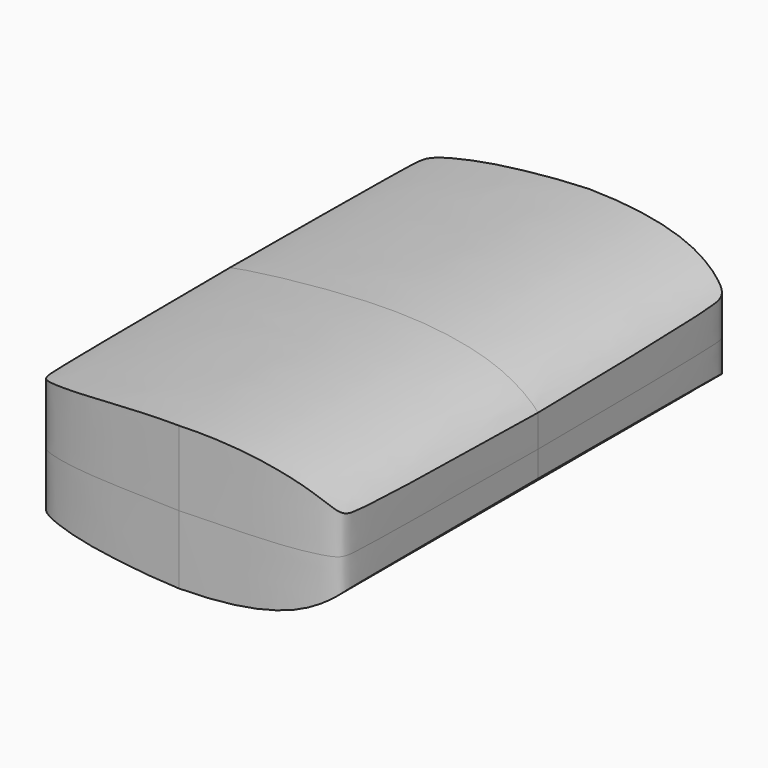
from build123d import *

# Parameters (mm, degrees)
F3_DEPTH      = 25
F3_DEPTH_BACK = 25
F2_W          = 111.228607595
F2_H          = 60.7737265527
F4_DEPTH      = 150
F4_DEPTH_BACK = 150


with BuildPart() as f3:
    # F1 (on Top) → F3 (new body, two sides)
    with BuildSketch(Plane.XY) as f3_sk:
        with BuildLine():
            add(Edge.make_bspline(
                [(0, 51.0523058474), (4.2101277067, 50.9208438135), (12.2649972253, 50.6693289892), (22.1205879887, 50.030140559), (28.81754932, 48.3742499563), (29.8539586074, 46.7460719344), (30.3505738898, 42.7036323475), (30.5332470103, 18.9094804583), (30.6784193963, 0)],
                knots=[0, 0, 0, 0, 0.1873444572, 0.3584297824, 0.4920942937, 0.5562469846, 0.6473444814, 1, 1, 1, 1], degree=3))
            add(Edge.make_bspline(
                [(0, 51.0523058474), (-4.2101277067, 50.9208438135), (-12.2649972253, 50.6693289892), (-22.1205879887, 50.030140559), (-28.81754932, 48.3742499563), (-29.8539586074, 46.7460719344), (-30.3505738898, 42.7036323475), (-30.5332470103, 18.9094804583), (-30.6784193963, 0)],
                knots=[0, 0, 0, 0, 0.1873444572, 0.3584297824, 0.4920942937, 0.5562469846, 0.6473444814, 1, 1, 1, 1], degree=3))
            add(Edge.make_bspline(
                [(0, -51.0523058474), (-4.2101277067, -50.9208438135), (-12.2649972253, -50.6693289892), (-22.1205879887, -50.030140559), (-28.81754932, -48.3742499563), (-29.8539586074, -46.7460719344), (-30.3505738898, -42.7036323475), (-30.5332470103, -18.9094804583), (-30.6784193963, 0)],
                knots=[0, 0, 0, 0, 0.1873444572, 0.3584297824, 0.4920942937, 0.5562469846, 0.6473444814, 1, 1, 1, 1], degree=3))
            add(Edge.make_bspline(
                [(0, -51.0523058474), (4.2101277067, -50.9208438135), (12.2649972253, -50.6693289892), (22.1205879887, -50.030140559), (28.81754932, -48.3742499563), (29.8539586074, -46.7460719344), (30.3505738898, -42.7036323475), (30.5332470103, -18.9094804583), (30.6784193963, 0)],
                knots=[0, 0, 0, 0, 0.1873444572, 0.3584297824, 0.4920942937, 0.5562469846, 0.6473444814, 1, 1, 1, 1], degree=3))
        make_face()
    extrude(amount=F3_DEPTH)
    extrude(f3_sk.sketch, amount=-F3_DEPTH_BACK)

    # F2 (on Front) → F4 (cut, two sides)
    with BuildSketch(Plane.XZ) as f4_sk:
        Rectangle(F2_W, F2_H)
        with BuildLine():
            add(Edge.make_bspline(
                [(-30.4400417954, 0.6283813564), (-30.5159334322, 4.6189735913), (-30.6050558481, 9.3052767981), (-30.3245028421, 9.952923693), (-31.2723962754, 9.6931423695), (-32.012043555, 10.2124424051), (-31.9430830558, 11.428518313), (-30.5325395485, 12.2907607529), (-1.2768176004, 16.0551991567), (17.6209410553, 13.8843710099), (26.7302981419, 10.2683948425), (32.4769251968, 5.2428072962), (32.2106882034, 1.0983054835), (31.282979952, 1.5582742054), (30.9357808828, 1.5215312393), (30.7671558112, 1.5036861878)],
                knots=[0, 0, 0, 0, 0.1143057094, 0.1342335125, 0.1674824811, 0.2020063857, 0.2395292163, 0.2795739276, 0.4827125466, 0.6585945582, 0.7747586985, 0.8778107353, 0.9429319273, 0.9722836013, 1, 1, 1, 1], degree=3))
            Line((30.7671558112, 1.5036861878), (30.7671558112, -0.2469234751))
            add(Edge.make_bspline(
                [(-30.4400417954, 0.6283813564), (-30.5159334322, -3.3622108785), (-30.6050558481, -8.0485140854), (-30.3245028421, -8.6961609803), (-31.2723962754, -8.4363796568), (-32.012043555, -8.9556796924), (-31.9430830558, -10.1717556003), (-30.5325395485, -11.0339980402), (-1.2768176004, -14.798436444), (17.6209410553, -12.6276082972), (26.7302981419, -9.0116321298), (32.4769251968, -3.9860445834), (32.2106882034, 0.1584572292), (31.282979952, -0.3015114927), (30.9357808828, -0.2647685266), (30.7671558112, -0.2469234751)],
                knots=[0, 0, 0, 0, 0.1143057094, 0.1342335125, 0.1674824811, 0.2020063857, 0.2395292163, 0.2795739276, 0.4827125466, 0.6585945582, 0.7747586985, 0.8778107353, 0.9429319273, 0.9722836013, 1, 1, 1, 1], degree=3))
        make_face(mode=Mode.SUBTRACT)
    extrude(amount=-F4_DEPTH, mode=Mode.SUBTRACT)
    extrude(f4_sk.sketch, amount=F4_DEPTH_BACK, mode=Mode.SUBTRACT)


solid = f3.part
